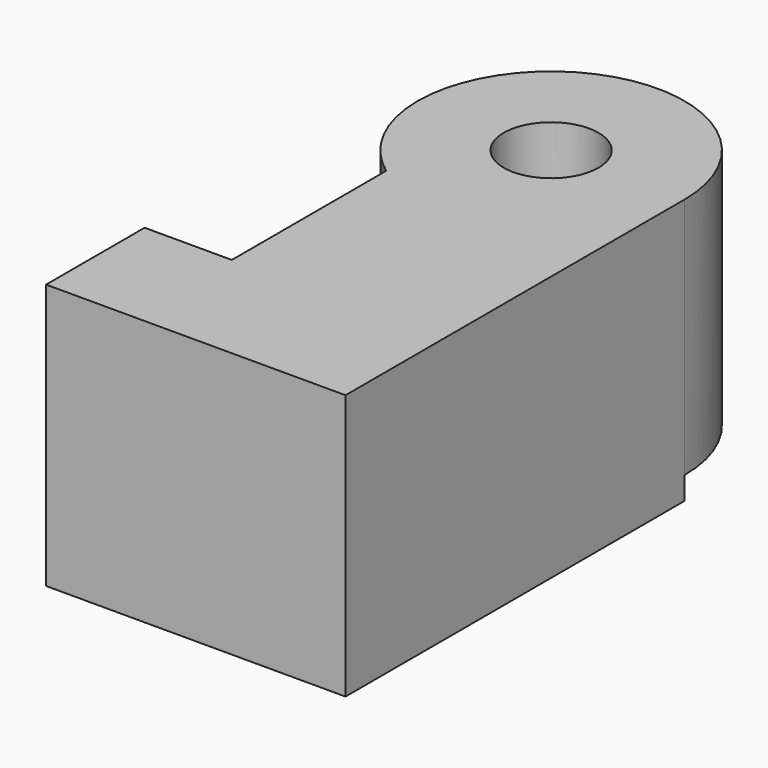
from build123d import *

# Parameters (mm, degrees)
F1_DEPTH = 7
F0_R     = 1.25
F2_DEPTH = 6.4


with BuildPart() as f1:
    # F0 (on Top) → F1 (new body)
    with BuildSketch(Plane.XY):
        with BuildLine():
            Line((0.053334, -14.707793), (0.053334, -3.527793))
            ThreePointArc((0.053334, -3.527793), (-1.874686, -6.66722), (-5.546666, -6.367512))
            Line((-5.546666, -6.367512), (-5.546666, -11.457793))
            Line((-5.546666, -11.457793), (-7.846666, -11.457793))
            Line((-7.846666, -11.457793), (-7.846666, -14.707793))
            Line((-7.846666, -14.707793), (-3.466666, -14.707793))
            Line((-3.466666, -14.707793), (0.053334, -14.707793))
        make_face()
    extrude(amount=-F1_DEPTH)

    # F0 (on Top) → F2 (join)
    with BuildSketch(Plane.XY):
        with BuildLine():
            ThreePointArc((-5.546666, -6.367512), (-1.874686, -6.66722), (0.053334, -3.527793))
            ThreePointArc((0.053334, -3.527793), (-5.058645, -0.388367), (-5.546666, -6.367512))
        make_face()
        with Locations((-3.466666, -3.527793)):
            Circle(F0_R, mode=Mode.SUBTRACT)
    extrude(amount=-F2_DEPTH)


solid = f1.part
